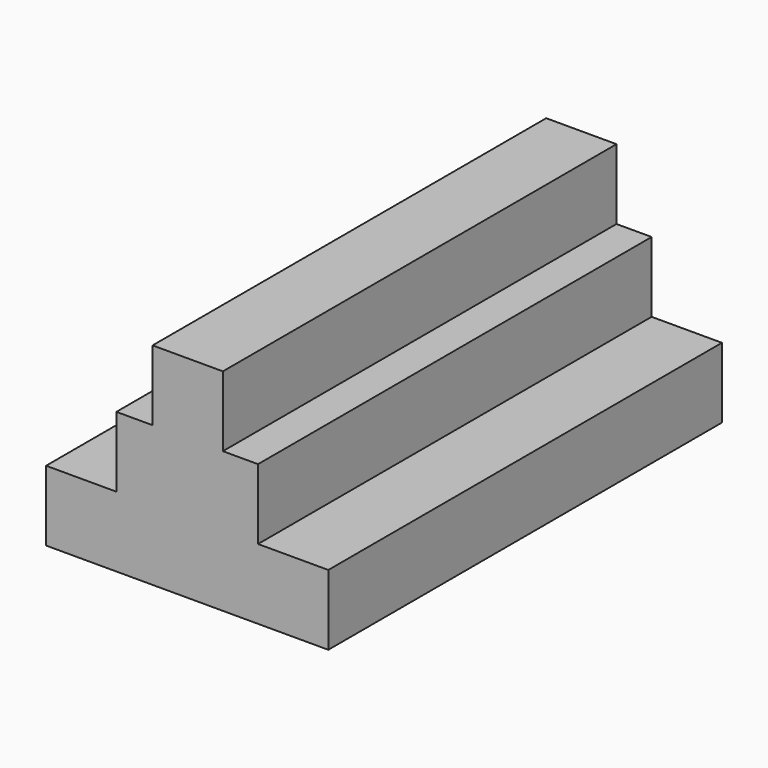
from build123d import *

# Parameters (mm, degrees)
F0_W     = 2.5
F0_H     = 5
F1_DEPTH = 35


with BuildPart() as f1:
    # F0 (on Front) → F1 (new body)
    with BuildSketch(Plane.XZ):
        with Locations((-3.75, 13.401443)):
            Rectangle(F0_W, F0_H)
        with Locations((-1.25, 13.401443)):
            Rectangle(F0_W, F0_H)
        Polygon((-2.5, 10.901443), (-5, 10.901443), (-7.576827, 10.901443), (-7.576827, 5.901443), (-12.576827, 5.901443), (-12.576827, 0.901443), (7.5, 0.901443), (7.5, 5.901443), (2.5, 5.901443), (2.5, 10.901443), (0, 10.901443), align=None)
    extrude(amount=F1_DEPTH)


solid = f1.part
